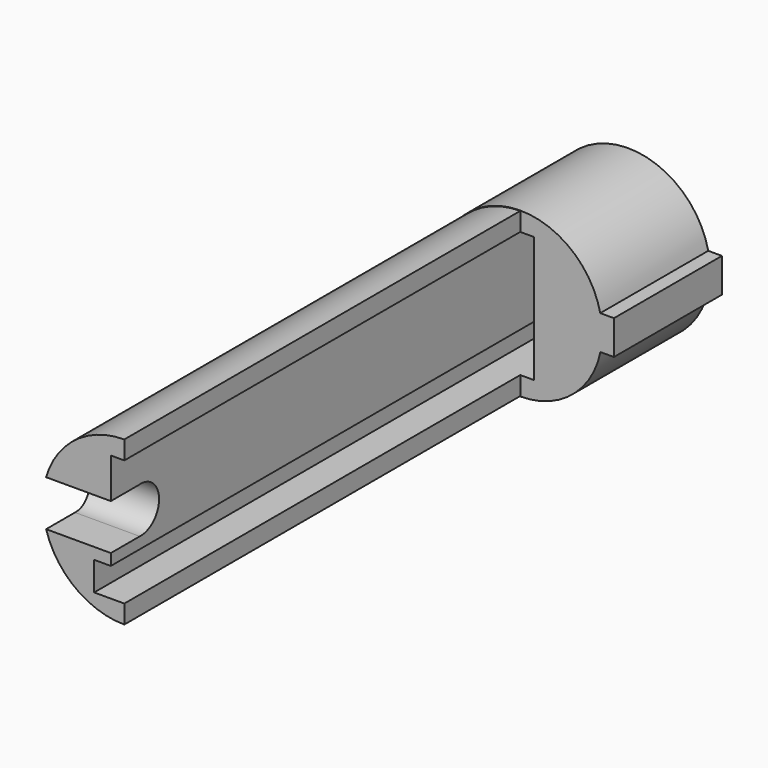
from build123d import *

# Parameters (mm, degrees)
PAD_DEPTH       = 15
POCKET_DEPTH    = 13
PAD001_DEPTH    = 55
POCKET001_DEPTH = 7.601


with BuildPart() as part:
    # Sketch → Pad (new body)
    with BuildSketch(Plane.XZ):
        with BuildLine():
            ThreePointArc((8.889624, 1.945402), (-9.099882, -0.046426), (8.90901, -1.854598))
            Line((10.40901, -1.854598), (8.90901, -1.854598))
            Line((10.40901, 1.945402), (10.40901, -1.854598))
            Line((8.889624, 1.945402), (10.40901, 1.945402))
        make_face()
    extrude(amount=PAD_DEPTH)

    # Sketch001 (on Face6 of Pad) → Pocket (cut)
    with BuildSketch(Plane.XZ.offset(15)):
        Polygon((-1.5, 7), (1.5, 7), (1.5, -7), (-3.348355, -7), (-3.348355, -3.808815), (-1.5, -3.808815), align=None)
    extrude(amount=-POCKET_DEPTH, mode=Mode.SUBTRACT)

    # Sketch002 (on Face5 of Pocket) → Pad001 (join)
    with BuildSketch(Plane.XZ.offset(15)):
        with BuildLine():
            Line((0, 7), (-1.5, 7))
            Line((-1.5, 7), (-1.5, -3.808815))
            Line((-1.5, -3.808815), (-3.348355, -3.808815))
            Line((-3.348355, -3.808815), (-3.348355, -7))
            Line((-3.348355, -7), (0, -7))
            Line((0, -7), (0, -9.054887))
            ThreePointArc((0, 9.054887), (-9.054887, 0), (0, -9.054887))
            Line((0, 7), (0, 9.054887))
        make_face()
    extrude(amount=PAD001_DEPTH)

    # Sketch003 (on Face19 of Pad001) → Pocket001 (cut, through all)
    with BuildSketch(Plane(origin=(-1.5, 0, 0), x_dir=(0, 0, 1), z_dir=(1, 0, 0))):
        with BuildLine():
            Line((-2.546247, 70), (-2.546247, 65.982418))
            ThreePointArc((-2.546247, 65.982418), (0.071035, 63.295116), (2.534594, 66.124008))
            Line((2.534594, 70), (2.534594, 66.124008))
            Line((-2.546247, 70), (2.534594, 70))
        make_face()
    extrude(amount=-POCKET001_DEPTH, mode=Mode.SUBTRACT)


solid = part.part
